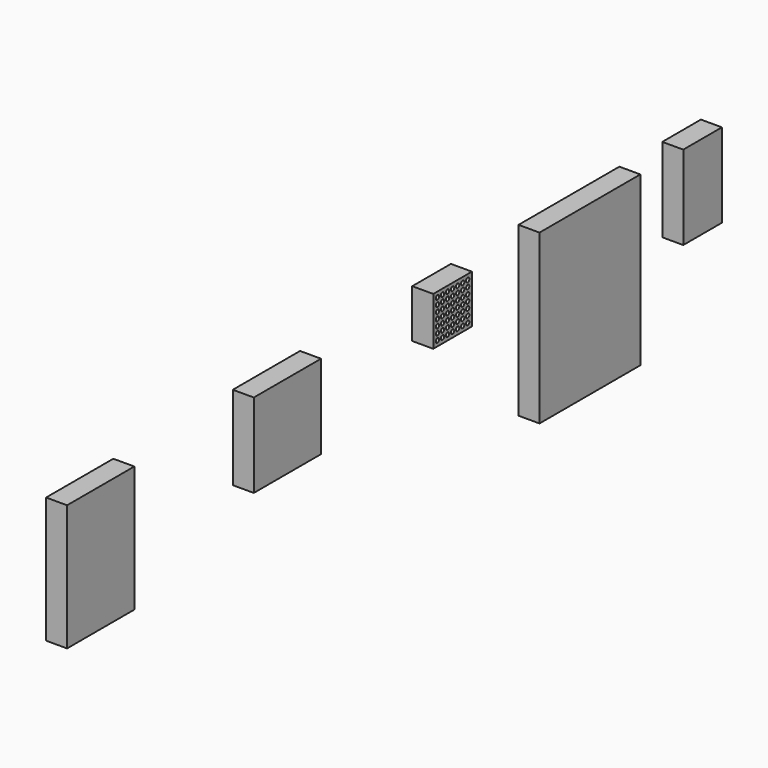
from build123d import *

# Parameters (mm, degrees)
F0_W     = 11.5
F0_H     = 11.5
F0_R     = 0.5
F0_W_2   = 30
F0_H_2   = 40
F0_W_3   = 20
F0_H_3   = 30
F0_H_4   = 20
F1_DEPTH = 5


with BuildPart() as f1:
    # F0 (on Right) → F1 (new body)
    with BuildSketch(Plane.YZ):
        with Locations((5.75, -5.75)):
            Rectangle(F0_W, F0_H)
        with Locations((1.25, -10.249999)):
            Circle(F0_R, mode=Mode.SUBTRACT)
        with Locations((2.75, -10.249999)):
            Circle(F0_R, mode=Mode.SUBTRACT)
        with Locations((4.25, -10.249999)):
            Circle(F0_R, mode=Mode.SUBTRACT)
        with Locations((5.75, -10.249999)):
            Circle(F0_R, mode=Mode.SUBTRACT)
        with Locations((7.25, -10.249999)):
            Circle(F0_R, mode=Mode.SUBTRACT)
        with Locations((8.75, -10.249999)):
            Circle(F0_R, mode=Mode.SUBTRACT)
        with Locations((10.25, -10.249999)):
            Circle(F0_R, mode=Mode.SUBTRACT)
        with Locations((1.25, -8.75)):
            Circle(F0_R, mode=Mode.SUBTRACT)
        with Locations((2.75, -8.75)):
            Circle(F0_R, mode=Mode.SUBTRACT)
        with Locations((4.25, -8.75)):
            Circle(F0_R, mode=Mode.SUBTRACT)
        with Locations((5.748865, -8.75)):
            Circle(F0_R, mode=Mode.SUBTRACT)
        with Locations((7.25, -8.75)):
            Circle(F0_R, mode=Mode.SUBTRACT)
        with Locations((8.75, -8.75)):
            Circle(F0_R, mode=Mode.SUBTRACT)
        with Locations((10.25, -8.75)):
            Circle(F0_R, mode=Mode.SUBTRACT)
        with Locations((1.25, -7.25)):
            Circle(F0_R, mode=Mode.SUBTRACT)
        with Locations((2.75, -7.25)):
            Circle(F0_R, mode=Mode.SUBTRACT)
        with Locations((4.25, -7.25)):
            Circle(F0_R, mode=Mode.SUBTRACT)
        with Locations((5.75, -7.25)):
            Circle(F0_R, mode=Mode.SUBTRACT)
        with Locations((7.25, -7.25)):
            Circle(F0_R, mode=Mode.SUBTRACT)
        with Locations((8.75, -7.25)):
            Circle(F0_R, mode=Mode.SUBTRACT)
        with Locations((10.25, -7.25)):
            Circle(F0_R, mode=Mode.SUBTRACT)
        with Locations((1.25, -5.75)):
            Circle(F0_R, mode=Mode.SUBTRACT)
        with Locations((2.75, -5.75)):
            Circle(F0_R, mode=Mode.SUBTRACT)
        with Locations((4.25, -5.75)):
            Circle(F0_R, mode=Mode.SUBTRACT)
        with Locations((5.75, -5.75)):
            Circle(F0_R, mode=Mode.SUBTRACT)
        with Locations((7.25, -5.75)):
            Circle(F0_R, mode=Mode.SUBTRACT)
        with Locations((8.75, -5.75)):
            Circle(F0_R, mode=Mode.SUBTRACT)
        with Locations((10.25, -5.75)):
            Circle(F0_R, mode=Mode.SUBTRACT)
        with Locations((1.25, -4.25)):
            Circle(F0_R, mode=Mode.SUBTRACT)
        with Locations((2.75, -4.25)):
            Circle(F0_R, mode=Mode.SUBTRACT)
        with Locations((4.25, -4.25)):
            Circle(F0_R, mode=Mode.SUBTRACT)
        with Locations((5.75, -4.25)):
            Circle(F0_R, mode=Mode.SUBTRACT)
        with Locations((7.25, -4.25)):
            Circle(F0_R, mode=Mode.SUBTRACT)
        with Locations((8.75, -4.25)):
            Circle(F0_R, mode=Mode.SUBTRACT)
        with Locations((10.25, -4.25)):
            Circle(F0_R, mode=Mode.SUBTRACT)
        with Locations((1.25, -2.75)):
            Circle(F0_R, mode=Mode.SUBTRACT)
        with Locations((2.75, -2.75)):
            Circle(F0_R, mode=Mode.SUBTRACT)
        with Locations((4.25, -2.75)):
            Circle(F0_R, mode=Mode.SUBTRACT)
        with Locations((5.748865, -2.75)):
            Circle(F0_R, mode=Mode.SUBTRACT)
        with Locations((7.25, -2.75)):
            Circle(F0_R, mode=Mode.SUBTRACT)
        with Locations((8.75, -2.75)):
            Circle(F0_R, mode=Mode.SUBTRACT)
        with Locations((10.25, -2.75)):
            Circle(F0_R, mode=Mode.SUBTRACT)
        with Locations((1.25, -1.250001)):
            Circle(F0_R, mode=Mode.SUBTRACT)
        with Locations((2.75, -1.250001)):
            Circle(F0_R, mode=Mode.SUBTRACT)
        with Locations((4.25, -1.250001)):
            Circle(F0_R, mode=Mode.SUBTRACT)
        with Locations((5.75, -1.250001)):
            Circle(F0_R, mode=Mode.SUBTRACT)
        with Locations((7.25, -1.250001)):
            Circle(F0_R, mode=Mode.SUBTRACT)
        with Locations((8.75, -1.250001)):
            Circle(F0_R, mode=Mode.SUBTRACT)
        with Locations((10.25, -1.250001)):
            Circle(F0_R, mode=Mode.SUBTRACT)
        with Locations((46.618495, -20)):
            Rectangle(F0_W_2, F0_H_2)
        with Locations((-98.95025, -15)):
            Rectangle(F0_W_3, F0_H_3)
        with Locations((-43.391993, -10)):
            Rectangle(F0_W_3, F0_H_4)
        with Locations((80.140166, -10)):
            Rectangle(F0_W, F0_H_4)
    extrude(amount=F1_DEPTH)


solid = f1.part
